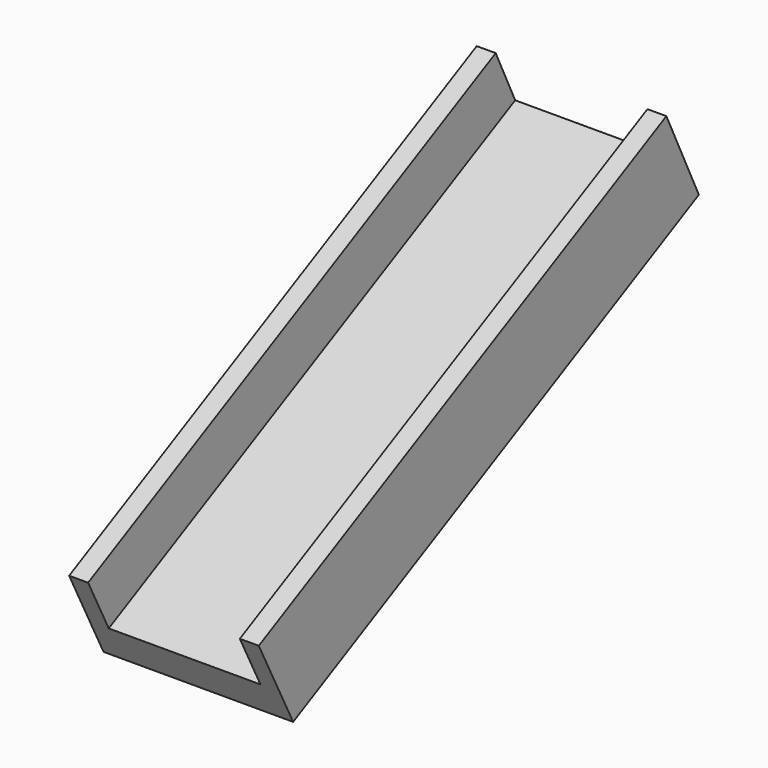
from build123d import *

# Parameters (mm, degrees)
F1_DEPTH = 25.4
F2_W     = 20.32
F2_H     = 76.557289119
F3_DEPTH = 7.62


with BuildPart() as f1:
    # F0 (on Right) → F1 (new body)
    with BuildSketch(Plane.YZ):
        Polygon((-5.7579418114, 11.3197219973), (0, 0), (67.918331984, 34.5476508683), (62.4788479285, 46.0293610512), align=None)
    extrude(amount=F1_DEPTH)

    # F2 (on face) → F3 (cut)
    with BuildSketch(Plane(origin=(0, -5.7579418114, 11.3197219973), x_dir=(1, 0, 0), z_dir=(0, -0.453381245, 0.8913166927))):
        with Locations((12.7, 38.2786445595)):
            Rectangle(F2_W, F2_H)
    extrude(amount=-F3_DEPTH, mode=Mode.SUBTRACT)


solid = f1.part
